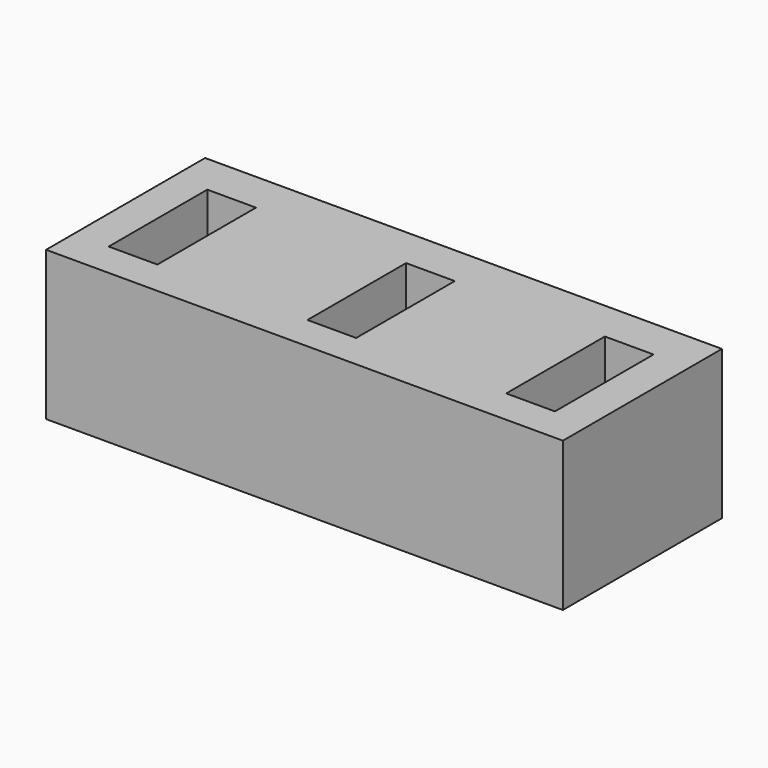
from build123d import *

# Parameters (mm, degrees)
BOX003_W     = 4.9
BOX003_H     = 12.4
BOX003_DEPTH = 20
BOX002_W     = 4.9
BOX002_H     = 12.4
BOX002_DEPTH = 20
BOX001_W     = 4.9
BOX001_H     = 12.4
BOX001_DEPTH = 20
BOX_W        = 52
BOX_H        = 20
BOX_DEPTH    = 15


with BuildPart() as slot003:
    # Box003 → Box003 (new body)
    with BuildSketch(Plane(origin=(43.5, 3.5, 4), x_dir=(1, 0, 0), z_dir=(0, 0, 1))):
        with Locations((2.45, 6.2)):
            Rectangle(BOX003_W, BOX003_H)
    extrude(amount=BOX003_DEPTH)


with BuildPart() as slot002:
    # Box002 → Box002 (new body)
    with BuildSketch(Plane(origin=(23.5, 3.5, 4), x_dir=(1, 0, 0), z_dir=(0, 0, 1))):
        with Locations((2.45, 6.2)):
            Rectangle(BOX002_W, BOX002_H)
    extrude(amount=BOX002_DEPTH)


with BuildPart() as slots:
    # Box001 → Box001 (new body)
    with BuildSketch(Plane(origin=(3.5, 3.5, 4), x_dir=(1, 0, 0), z_dir=(0, 0, 1))):
        with Locations((2.45, 6.2)):
            Rectangle(BOX001_W, BOX001_H)
    extrude(amount=BOX001_DEPTH)

    # Fusion: union slot003, slot002
    add(slot003.part)
    add(slot002.part)


with BuildPart() as obj1:
    # Box → Box (new body)
    with BuildSketch(Plane.XY):
        with Locations((26, 10)):
            Rectangle(BOX_W, BOX_H)
    extrude(amount=BOX_DEPTH)

    # Cut: cut slots
    add(slots.part, mode=Mode.SUBTRACT)


solid = obj1.part
